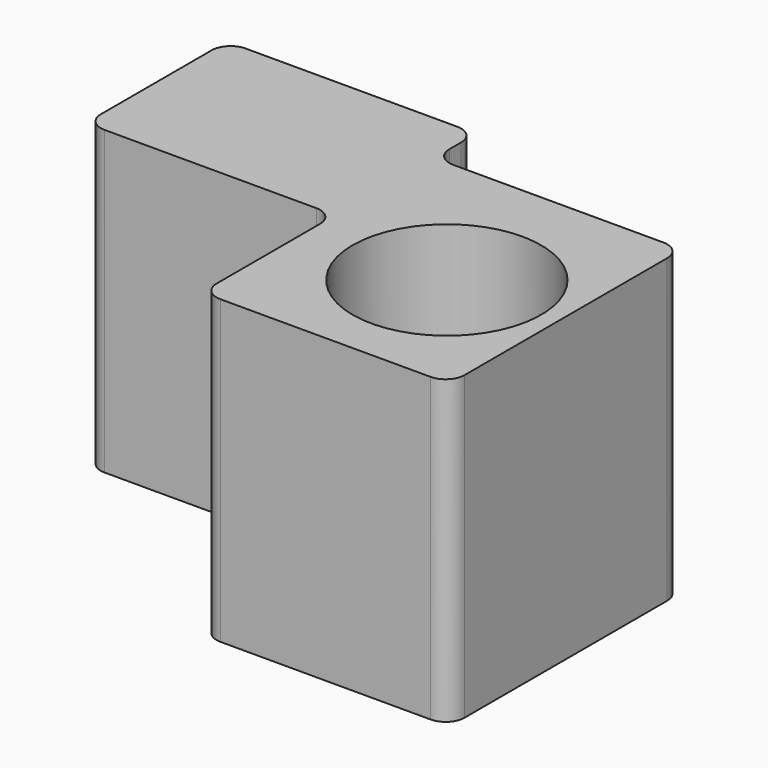
from build123d import *

# Parameters (mm, degrees)
F1_DEPTH = 80
F2_R     = 5
F4_D     = 50


with BuildPart() as f1:
    # F0 (on Top) → F1 (new body)
    with BuildSketch(Plane.XY):
        Polygon((-56.56068, -18.37711), (9.596914, -18.37711), (9.596914, 14.497496), (9.596914, 28.382421), (-56.56068, 28.382421), align=None)
        Polygon((9.596914, 14.497496), (9.596914, -18.37711), (9.596914, -62.686369), (75.346142, -62.686369), (75.346142, 14.497496), align=None)
    extrude(amount=F1_DEPTH)

    # F2
    f2_edges = [f1.edges().sort_by_distance(p)[0] for p in [
        (9.596914, 14.497496, 40),
        (9.596914, -18.37711, 40),
        (-56.56068, -18.37711, 40),
        (-56.56068, 28.382421, 40),
        (9.596914, 28.382421, 40),
        (75.346142, 14.497496, 40),
        (75.346142, -62.686369, 40),
        (9.596914, -62.686369, 40),
    ]]
    fillet(f2_edges, radius=F2_R)

    # F4 (through all)
    with Locations(Plane.XY.offset(80)):
        with Locations((45.840353, -26.656464)):
            Hole(F4_D / 2)


solid = f1.part
